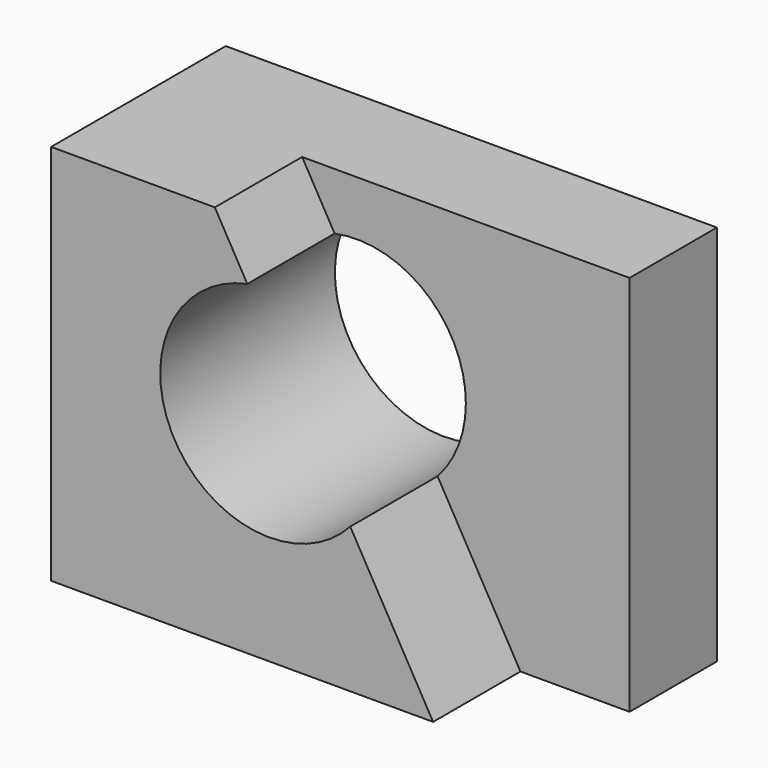
from build123d import *

# Parameters (mm, degrees)
F0_W     = 114.3
F0_H     = 50.8
F1_DEPTH = 88.9
F3_DEPTH = 25.4
F5_DEPTH = 50.801


with BuildPart() as f1:
    # F0 (on Top) → F1 (new body)
    with BuildSketch(Plane.XY):
        with Locations((10.085293, -5.276952)):
            Rectangle(F0_W, F0_H)
    extrude(amount=F1_DEPTH)

    # F2 (on face) → F3 (cut)
    with BuildSketch(Plane.XZ.offset(30.676952)):
        Polygon((41.835293, 0), (67.235293, 0), (67.235293, 88.9), (-8.964707, 88.9), align=None)
    extrude(amount=-F3_DEPTH, mode=Mode.SUBTRACT)

    # F4 (on face) → F5 (cut, through all)
    with BuildSketch(Plane.XZ.offset(30.676952)):
        with BuildLine():
            Line((22.554513, 33.741366), (-1.407003, 75.674018))
            ThreePointArc((-1.407003, 75.674018), (-18.318082, 38.198071), (22.554513, 33.741366))
        make_face()
        with BuildLine():
            ThreePointArc((22.554513, 33.741366), (27.433059, 41.658014), (29.135293, 50.8))
            ThreePointArc((29.135293, 50.8), (19.77502, 70.494851), (-1.407003, 75.674018))
            Line((-1.407003, 75.674018), (22.554513, 33.741366))
        make_face()
    extrude(amount=-F5_DEPTH, mode=Mode.SUBTRACT)


solid = f1.part
